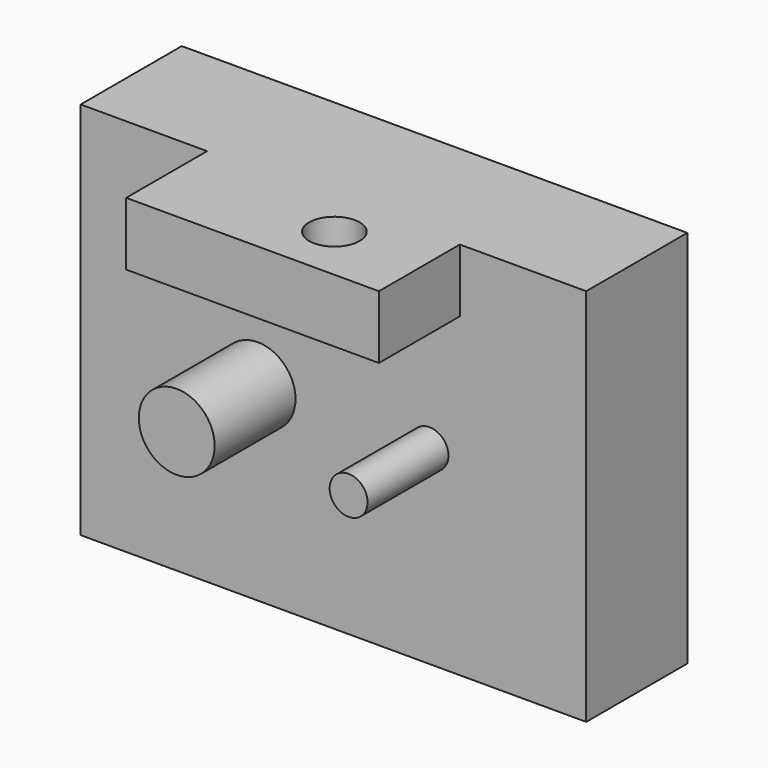
from build123d import *

# Parameters (mm, degrees)
F0_W     = 40
F0_H     = 30
F1_DEPTH = 10
F2_R     = 3
F2_R_2   = 1.5
F2_W     = 20
F2_H     = 5
F3_DEPTH = 8
F4_R     = 2
F5_DEPTH = 5


with BuildPart() as f1:
    # F0 (on Front) → F1 (new body)
    with BuildSketch(Plane.XZ):
        with Locations((20, 15)):
            Rectangle(F0_W, F0_H)
    extrude(amount=F1_DEPTH)

    # F2 (on face) → F3 (join)
    with BuildSketch(Plane.XZ.offset(10)):
        with Locations((14, 15)):
            Circle(F2_R)
        with Locations((27.6, 15)):
            Circle(F2_R_2)
        with Locations((20, 27.5)):
            Rectangle(F2_W, F2_H)
    extrude(amount=F3_DEPTH)

    # F4 (on face) → F5 (cut, through all)
    with BuildSketch(Plane.XY.offset(30)):
        with Locations((22.875, -13.5)):
            Circle(F4_R)
    extrude(amount=-F5_DEPTH, mode=Mode.SUBTRACT)


solid = f1.part
